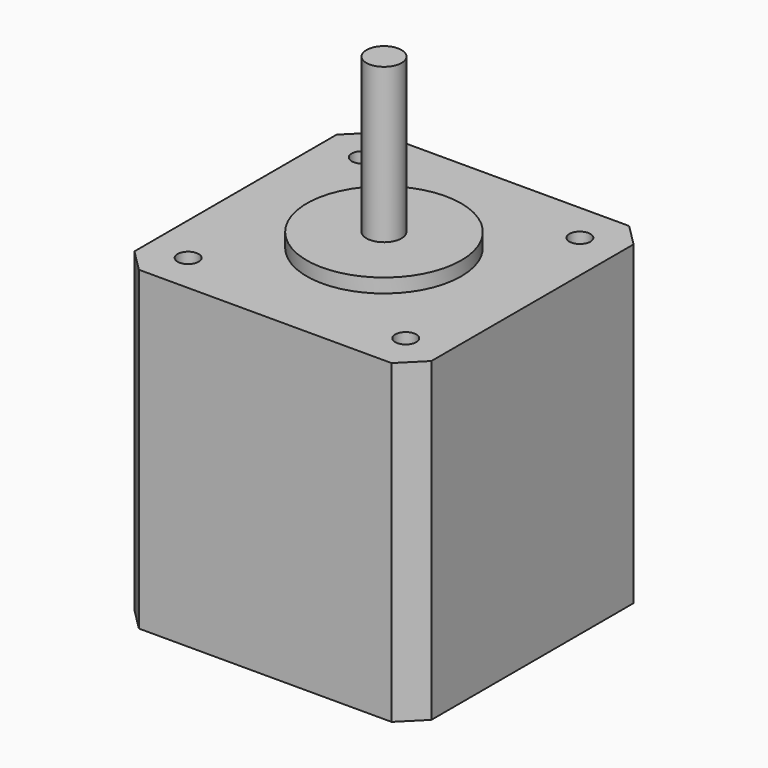
from build123d import *

# Parameters (mm, degrees)
PAD_DEPTH    = 40
SKETCH001_R  = 1.5
PAD001_DEPTH = 5
SKETCH002_R  = 11
PAD002_DEPTH = 2
SKETCH003_R  = 2.5
PAD003_DEPTH = 22


with BuildPart() as part:
    # Sketch → Pad (new body)
    with BuildSketch(Plane.XY):
        Polygon((3.15, 0), (0, 3.15), (0, 39.15), (3.15, 42.3), (39.15, 42.3), (42.3, 39.15), (42.3, 3.15), (39.15, 0), align=None)
    extrude(amount=PAD_DEPTH)

    # Sketch001 → Pad001 (new body)
    with BuildSketch(Plane.XY.offset(40)):
        Polygon((3.15, 0), (0, 3.15), (0, 39.15), (3.15, 42.3), (39.15, 42.3), (42.3, 39.15), (42.3, 3.15), (39.15, 0), align=None)
        with Locations((5.65, 36.65)):
            Circle(SKETCH001_R, mode=Mode.SUBTRACT)
        with Locations((36.65, 36.65)):
            Circle(SKETCH001_R, mode=Mode.SUBTRACT)
        with Locations((36.65, 5.65)):
            Circle(SKETCH001_R, mode=Mode.SUBTRACT)
        with Locations((5.65, 5.65)):
            Circle(SKETCH001_R, mode=Mode.SUBTRACT)
    extrude(amount=PAD001_DEPTH)

    # Sketch002 → Pad002 (new body)
    with BuildSketch(Plane.XY.offset(45)):
        with Locations((21.15, 21.15)):
            Circle(SKETCH002_R)
    extrude(amount=PAD002_DEPTH)

    # Sketch003 → Pad003 (new body)
    with BuildSketch(Plane.XY.offset(47)):
        with Locations((21.15, 21.15)):
            Circle(SKETCH003_R)
    extrude(amount=PAD003_DEPTH)


solid = part.part
